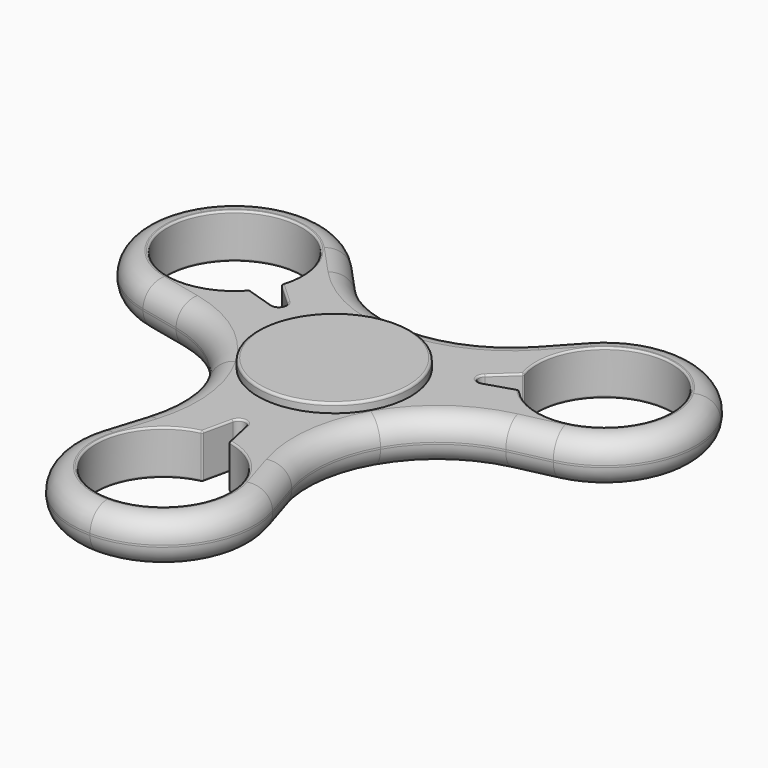
from build123d import *

# Parameters (mm, degrees)
F0_R     = 11
F1_DEPTH = 7.3
F2_R     = 3.5
F3_R     = 12.5
F3_R_2   = 11
F3_R_3   = 4
F3_R_4   = 3
F4_DEPTH = 1.5
F5_DEPTH = 3.3
F5_TAPER = -10
F6_R     = 0.4
F8_DEPTH = 25
F9_R     = 0.3


with BuildPart() as f1:
    # F0 (on Top) → F1 (new body)
    with BuildSketch(Plane.XY):
        with BuildLine():
            ThreePointArc((-14.0815902502, -8.1300099216), (-11.5245084589, -15.9206160953), (-12.3084624997, -24.0825783534))
            Line((-12.3084624997, -24.0825783534), (-14.3202268697, -30.5355736761))
            ThreePointArc((-14.3202268697, -30.5355736761), (-12.0823506583, -43.8891395855), (0, -50))
            ThreePointArc((0, -50), (12.0823506583, -43.8891395855), (14.3202268697, -30.5355736761))
            Line((14.3202268697, -30.5355736761), (12.3084624997, -24.0825783534))
            ThreePointArc((12.3084624997, -24.0825783534), (11.5245084589, -15.9206160953), (14.0815902502, -8.1300099216))
            ThreePointArc((14.0815902502, -8.1300099216), (19.5499122119, -2.0202090439), (27.0103558925, 1.3818479705))
            Line((27.0103558925, 1.3818479705), (33.6046959575, 2.866106581))
            ThreePointArc((33.6046959575, 2.866106581), (44.0502851604, 11.4809471853), (43.3012701892, 25))
            ThreePointArc((43.3012701892, 25), (31.9679345022, 32.4081924002), (19.2844690878, 27.6694670951))
            Line((19.2844690878, 27.6694670951), (14.7018933929, 22.700730383))
            ThreePointArc((14.7018933929, 22.700730383), (8.025403753, 17.9408251392), (0, 16.2600198431))
            ThreePointArc((0, 16.2600198431), (-8.025403753, 17.9408251392), (-14.7018933929, 22.700730383))
            Line((-14.7018933929, 22.700730383), (-19.2844690878, 27.6694670951))
            ThreePointArc((-19.2844690878, 27.6694670951), (-31.9679345022, 32.4081924002), (-43.3012701892, 25))
            ThreePointArc((-43.3012701892, 25), (-44.0502851604, 11.4809471853), (-33.6046959575, 2.866106581))
            Line((-33.6046959575, 2.866106581), (-27.0103558925, 1.3818479705))
            ThreePointArc((-27.0103558925, 1.3818479705), (-19.5499122119, -2.0202090439), (-14.0815902502, -8.1300099216))
        make_face()
        with Locations((0, -35)):
            Circle(F0_R, mode=Mode.SUBTRACT)
        Circle(F0_R, mode=Mode.SUBTRACT)
        with Locations((-30.3108891325, 17.5)):
            Circle(F0_R, mode=Mode.SUBTRACT)
        with Locations((30.3108891325, 17.5)):
            Circle(F0_R, mode=Mode.SUBTRACT)
    extrude(amount=F1_DEPTH)

    # F2
    f2_edges = [f1.edges().sort_by_distance(p)[0] for p in [
        (-43.30127, 25, 7.3),
        (-30.307526, 2.123977, 0),
    ]]
    fillet(f2_edges, radius=F2_R)

    # F7 (on face) → F8 (cut)
    with BuildSketch(Plane.XY.offset(7.3)):
        with BuildLine():
            Line((-26.2295098136, 19.8898821102), (-30.5257963163, 12.9203494059))
            Line((-30.5257963163, 12.9203494059), (-17.2716981461, 8.7313512036))
            ThreePointArc((-17.2716981461, 8.7313512036), (-15.9460269882, 9.2458299968), (-16.1613828262, 10.6514310464))
            Line((-16.1613828262, 10.6514310464), (-26.2295098136, 19.8898821102))
        make_face()
        with BuildLine():
            ThreePointArc((1.0742771214, -19.3234049628), (-0.0341101622, -18.4325794596), (-1.1437184598, -19.3218836109))
            Line((-1.1437184598, -19.3218836109), (-4.1103882789, -32.6603628825))
            Line((-4.1103882789, -32.6603628825), (4.0735473469, -32.8962897837))
            Line((4.0735473469, -32.8962897837), (1.0742771214, -19.3234049628))
        make_face()
        with BuildLine():
            ThreePointArc((16.1974210247, 10.5920537592), (15.9801371504, 9.1867494628), (17.3051012859, 8.6704525645))
            Line((17.3051012859, 8.6704525645), (30.3398980925, 12.7704807723))
            Line((30.3398980925, 12.7704807723), (26.4522489695, 19.9759403777))
            Line((26.4522489695, 19.9759403777), (16.1974210247, 10.5920537592))
        make_face()
        with BuildLine():
            Line((4.5393140454, 6.6288040296), (5.84056046, 8.0284828682))
            ThreePointArc((5.84056046, 8.0284828682), (6.2218449453, 9.2684527436), (5.4861601596, 10.3369428214))
            ThreePointArc((5.4861601596, 10.3369428214), (4.1917606635, 10.4231582199), (3.320866609, 9.4616767088))
            Line((3.320866609, 9.4616767088), (2.7829026537, 7.6278452374))
            Line((2.7829026537, 7.6278452374), (4.5393140454, 6.6288040296))
        make_face()
        with BuildLine():
            ThreePointArc((-6.1293846857, 9.7824645472), (-6.851249159, 8.7045894002), (-6.4540287724, 7.4696322694))
            Line((-6.4540287724, 7.4696322694), (-5.1348661095, 6.0868260821))
            Line((-5.1348661095, 6.0868260821), (-3.3914653483, 7.108402363))
            Line((-3.3914653483, 7.108402363), (-3.9529995724, 8.9351542339))
            ThreePointArc((-3.9529995724, 8.9351542339), (-4.8362027417, 9.8853412219), (-6.1293846857, 9.7824645472))
        make_face()
        with BuildLine():
            ThreePointArc((-11.456964837, -0.5541315047), (-10.8844298142, -1.7182220502), (-9.6163153731, -1.9916976699))
            Line((-9.6163153731, -1.9916976699), (-7.7591887549, -1.5406723858))
            Line((-7.7591887549, -1.5406723858), (-7.7721993854, 0.4799451029))
            Line((-7.7721993854, 0.4799451029), (-9.6349800241, 0.9070181352))
            ThreePointArc((-9.6349800241, 0.9070181352), (-10.8994676787, 0.6172352479), (-11.456964837, -0.5541315047))
        make_face()
        with BuildLine():
            ThreePointArc((-5.169000143, -10.3362492824), (-3.8746006469, -10.4224646809), (-3.0037065924, -9.4609831698))
            Line((-3.0037065924, -9.4609831698), (-2.4657426371, -7.6271516983))
            Line((-2.4657426371, -7.6271516983), (-4.2221540289, -6.6281104906))
            Line((-4.2221540289, -6.6281104906), (-5.5234004435, -8.0277893292))
            ThreePointArc((-5.5234004435, -8.0277893292), (-5.9046849288, -9.2677592045), (-5.169000143, -10.3362492824))
        make_face()
        with BuildLine():
            ThreePointArc((6.4465447022, -9.7817710082), (7.1684091756, -8.7038958612), (6.771188789, -7.4689387304))
            Line((6.771188789, -7.4689387304), (5.4520261261, -6.086132543))
            Line((5.4520261261, -6.086132543), (3.7086253649, -7.1077088239))
            Line((3.7086253649, -7.1077088239), (4.2701595889, -8.9344606949))
            ThreePointArc((4.2701595889, -8.9344606949), (5.1533627583, -9.8846476829), (6.4465447022, -9.7817710082))
        make_face()
        with BuildLine():
            ThreePointArc((11.7741248536, 0.5548250437), (11.2015898308, 1.7189155892), (9.9334753896, 1.9923912089))
            Line((9.9334753896, 1.9923912089), (8.0763487715, 1.5413659248))
            Line((8.0763487715, 1.5413659248), (8.089359402, -0.4792515638))
            Line((8.089359402, -0.4792515638), (9.9521400407, -0.9063245961))
            ThreePointArc((9.9521400407, -0.9063245961), (11.2166276953, -0.6165417088), (11.7741248536, 0.5548250437))
        make_face()
    extrude(amount=-F8_DEPTH, mode=Mode.SUBTRACT)

    # F9
    f9_edges = [f1.edges().sort_by_distance(p)[0] for p in [
        (-40.270181, 23.25, 7.3),
        (-29.538971, 5.538552, 7.3),
        (-11.050501, -6.38001, 7.3),
        (-9.972958, -28.350775, 7.3),
        (0, -46.5, 7.3),
        (9.972958, -28.350775, 7.3),
        (11.050501, -6.38001, 7.3),
        (29.538971, 5.538552, 7.3),
        (40.270181, 23.25, 7.3),
        (19.566013, 22.812223, 7.3),
        (0, 12.76002, 7.3),
        (-19.566013, 22.812223, 7.3),
        (0.041057, -45.999923, 7.3),
        (-1.689481, -21.775691, 7.3),
        (-0.03411, -18.432579, 7.3),
        (1.614529, -21.768259, 7.3),
        (-39.85763, 22.964406, 7.3),
        (-18.013562, 12.350979, 7.3),
        (-15.946027, 9.24583, 7.3),
        (-19.65913, 9.485906, 7.3),
        (9.248362, 5.955485, 7.3),
        (11.772067, 0.624074, 7.3),
        (9.829901, -4.936907, 7.3),
        (6.522643, -9.73404, 7.3),
        (0.6869, -10.978532, 7.3),
        (-5.088256, -10.378954, 7.3),
        (-9.192567, -6.041252, 7.3),
        (-11.454778, -0.625778, 7.3),
        (-9.791293, 5.013042, 7.3),
        (-6.172734, 9.756061, 7.3),
        (-0.496598, 10.988785, 7.3),
        (5.442404, 10.360871, 7.3),
        (39.816574, 23.035518, 7.3),
        (19.703042, 9.424713, 7.3),
        (15.980137, 9.186749, 7.3),
        (18.044601, 12.282353, 7.3),
        (-29.538971, 5.538552, 0),
        (-11.050501, -6.38001, 0),
        (-9.972958, -28.350775, 0),
        (0, -46.5, 0),
        (9.972958, -28.350775, 0),
        (11.050501, -6.38001, 0),
        (29.538971, 5.538552, 0),
        (40.270181, 23.25, 0),
        (19.566013, 22.812223, 0),
        (0, 12.76002, 0),
        (-19.566013, 22.812223, 0),
        (-40.270181, 23.25, 0),
        (1.614529, -21.768259, 0),
        (0.041057, -45.999923, 0),
        (-1.689481, -21.775691, 0),
        (-0.03411, -18.432579, 0),
        (-19.65913, 9.485906, 0),
        (-39.85763, 22.964406, 0),
        (-18.013562, 12.350979, 0),
        (-15.946027, 9.24583, 0),
        (9.248362, 5.955485, 0),
        (11.772067, 0.624074, 0),
        (9.829901, -4.936907, 0),
        (6.522643, -9.73404, 0),
        (0.6869, -10.978532, 0),
        (-5.088256, -10.378954, 0),
        (-9.192567, -6.041252, 0),
        (-11.454778, -0.625778, 0),
        (-9.791293, 5.013042, 0),
        (-6.172734, 9.756061, 0),
        (-0.496598, 10.988785, 0),
        (5.442404, 10.360871, 0),
        (18.044601, 12.282353, 0),
        (39.816574, 23.035518, 0),
        (19.703042, 9.424713, 0),
        (15.980137, 9.186749, 0),
        (-19.86574, 14.050527, 3.65),
        (-22.046562, 10.240462, 3.65),
        (22.100983, 10.178973, 3.65),
        (19.891781, 13.972652, 3.65),
        (10.972615, -0.775701, 3.65),
        (7.174403, -8.338342, 3.65),
        (-2.235243, -24.229499, 3.65),
        (2.154781, -24.213114, 3.65),
        (4.983953, -9.806132, 3.65),
        (-3.722776, -10.350891, 3.65),
        (-5.902371, -9.28235, 3.65),
        (-10.862279, -1.73519, 3.65),
        (-10.98666, 0.541575, 3.65),
        (-6.862388, 8.596955, 3.65),
        (-4.829953, 9.882892, 3.65),
        (3.918844, 10.278262, 3.65),
        (6.238993, 9.059524, 3.65),
        (10.829099, 1.931478, 3.65),
    ]]
    fillet(f9_edges, radius=F9_R)


with BuildPart() as f4:
    # F3 (on face) → F4 (new body)
    with BuildSketch(Plane.XY.offset(7.3)):
        Circle(F3_R)
        Circle(F3_R_2, mode=Mode.SUBTRACT)
        Circle(F3_R_2)
        Circle(F3_R_3, mode=Mode.SUBTRACT)
        Circle(F3_R_3)
        Circle(F3_R_4, mode=Mode.SUBTRACT)
        Circle(F3_R_4)
    extrude(amount=F4_DEPTH)

    # F3 (on face) → F5 (join)
    with BuildSketch(Plane.XY.offset(7.3)):
        Circle(F3_R_3)
        Circle(F3_R_4, mode=Mode.SUBTRACT)
    extrude(amount=-F5_DEPTH, taper=F5_TAPER)

    # F6
    f6_edges = [f4.edges().sort_by_distance(p)[0] for p in [
        (-4.581879, 0, 4),
        (-2.418121, 0, 4),
        (-12.5, 0, 8.8),
    ]]
    fillet(f6_edges, radius=F6_R)


solid = Compound([f1.part, f4.part])
